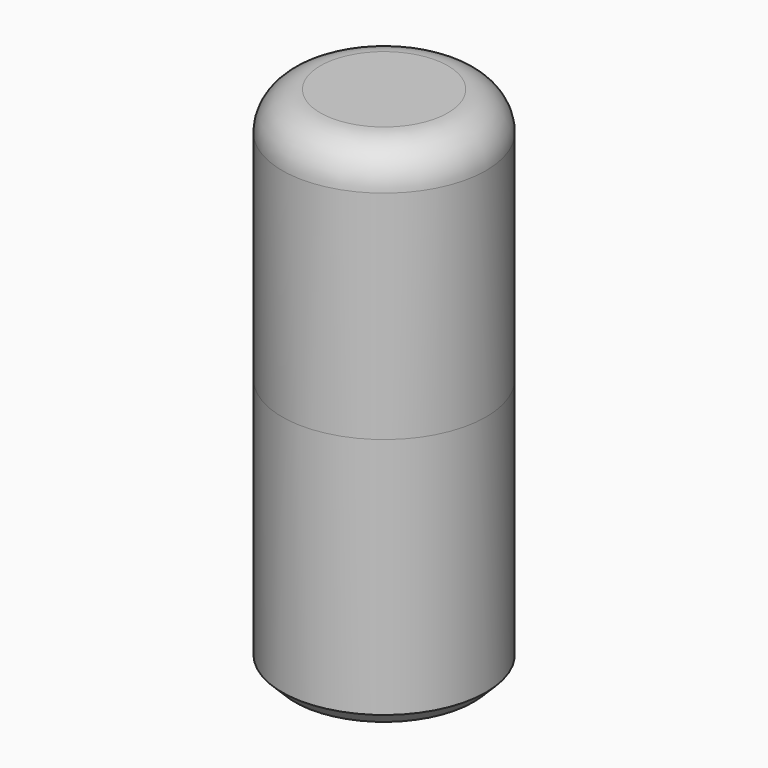
from build123d import *

# Parameters (mm, degrees)
F0_R      = 8
F1_DEPTH  = 20
F2_R      = 3
F1_FACE_R = 8
F3_DEPTH  = 20
F4_SIZE   = 1


with BuildPart() as f1:
    # F0 (on Top) → F1 (new body)
    with BuildSketch(Plane.XY):
        Circle(F0_R)
    extrude(amount=F1_DEPTH)

    # F2
    f2_edges = [f1.edges().sort_by_distance(p)[0] for p in [
        (-8, 0, 20),
    ]]
    fillet(f2_edges, radius=F2_R)


with BuildPart() as f3:
    # F1_face (on face) → F3 (new body)
    with BuildSketch(Plane(origin=(0, 0, 0), x_dir=(1, 0, 0), z_dir=(0, 0, -1))):
        Circle(F1_FACE_R)
    extrude(amount=F3_DEPTH)

    # F4
    f4_edges = [f3.edges().sort_by_distance(p)[0] for p in [
        (-8, 0, -20),
    ]]
    chamfer(f4_edges, length=F4_SIZE)


solid = Compound([f1.part, f3.part])
